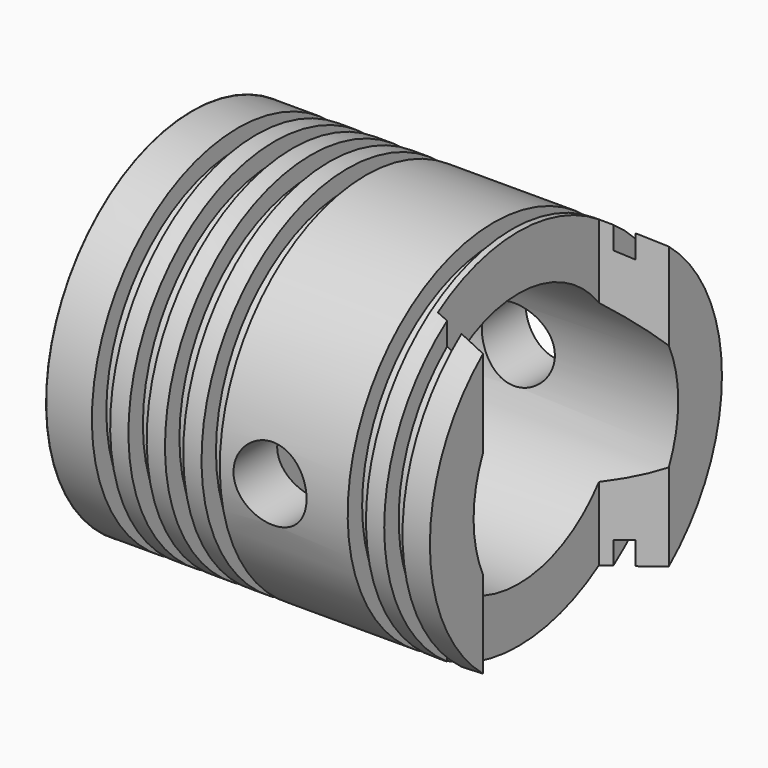
from build123d import *

# Parameters (mm, degrees)
F2_R     = 5.08
F3_DEPTH = 63.5
F5_DEPTH = 50


with BuildPart() as f1:
    # F0 (on Front) → F1 (revolve)
    with BuildSketch(Plane.XZ):
        Polygon((0, 25.3715255082), (0, 0), (19.05, 0), (19.05, 17.78), (53.34, 17.78), (53.34, 25.3715255082), (49.53, 25.3715255082), (49.53, 22.86), (46.99, 22.86), (46.99, 25.3715255082), (44.45, 25.3715255082), (44.45, 22.86), (41.91, 22.86), (41.91, 25.3715255082), (24.13, 25.3715255082), (24.13, 22.86), (21.59, 22.86), (21.59, 25.3715255082), (19.05, 25.3715255082), (19.05, 22.86), (16.51, 22.86), (16.51, 25.3715255082), (13.97, 25.3715255082), (13.97, 22.86), (11.43, 22.86), (11.43, 25.3715255082), (8.89, 25.3715255082), (8.89, 22.86), (6.35, 22.86), (6.35, 25.3715255082), align=None)
        Polygon((-4.47870531, 0), (0, 0), (0, 25.3715255082), (0, 25.4), align=None)
    revolve(axis=Axis((9.525, 0, 0), (-1, 0, 0)))

    # F2 (on Front) → F3 (cut, symmetric)
    with BuildSketch(Plane.XZ):
        with Locations((31.115, 0)):
            Circle(F2_R)
    extrude(amount=F3_DEPTH, both=True, mode=Mode.SUBTRACT)

    # F4 (on Top) → F5 (cut, symmetric)
    with BuildSketch(Plane.XY):
        Polygon((53.34, -16.1435935394), (53.34, 16.1435935394), (45.34, 14), (45.34, -14), align=None)
    extrude(amount=F5_DEPTH, both=True, mode=Mode.SUBTRACT)


solid = f1.part
